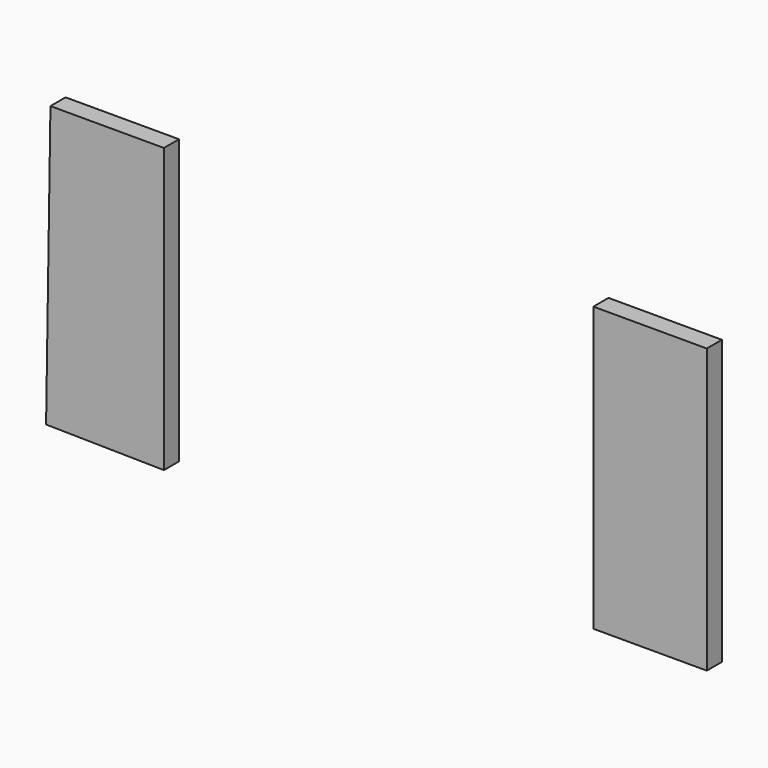
from build123d import *

# Parameters (mm, degrees)
F0_W     = 15.24
F0_H     = 38.1
F1_DEPTH = 2.54


with BuildPart() as f1:
    # F0 (on Front) → F1 (new body)
    with BuildSketch(Plane.XZ):
        Polygon((-35.294238, 19.172819), (-50.534238, 19.172819), (-51.121132, -18.681803), (-35.294238, -18.927181), align=None)
        with Locations((30.014367, 0.122819)):
            Rectangle(F0_W, F0_H)
    extrude(amount=F1_DEPTH)


solid = f1.part
